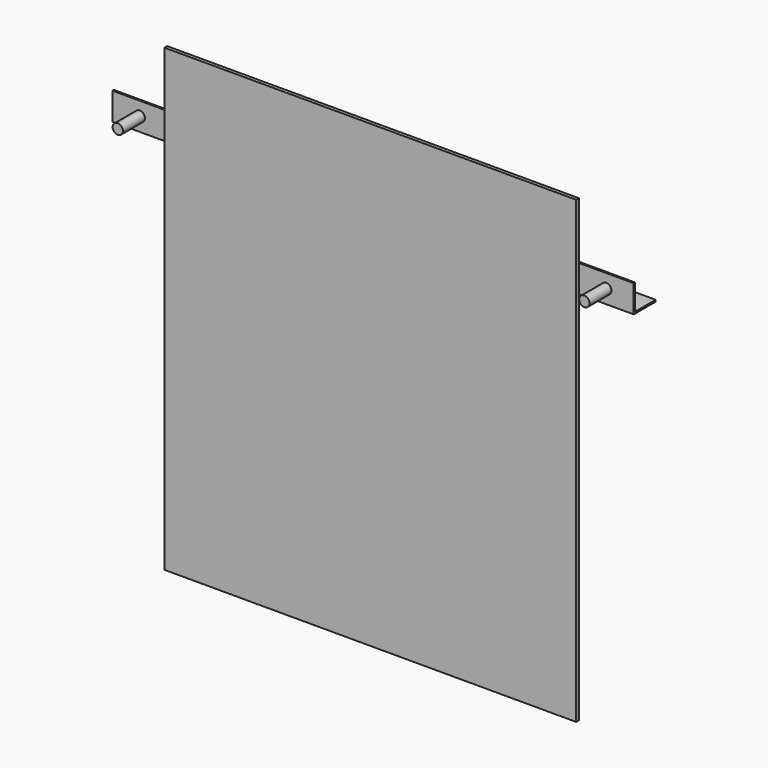
from build123d import *

# Parameters (mm, degrees)
F0_W      = 762
F0_H      = 850.9
F1_DEPTH  = 6.35
F3_DEPTH  = 101.6
F4_DEPTH  = 863.6
F5_R      = 9.525
F6_DEPTH  = 50.8
F7_R      = 9.525
F8_DEPTH  = 50.8
F11_DEPTH = 101.6
F12_DEPTH = 863.6
F13_R     = 9.525
F14_DEPTH = 50.8
F15_R     = 9.525
F16_DEPTH = 50.8


with BuildPart() as f1:
    # F0 (on Front) → F1 (new body)
    with BuildSketch(Plane.XZ):
        with Locations((381, 425.45)):
            Rectangle(F0_W, F0_H)
    extrude(amount=F1_DEPTH)


with BuildPart() as f3:
    # F2 (on face) → F3 (new body)
    with BuildSketch(Plane.YZ.offset(762)):
        Polygon((0, 674.259339), (0, 623.459339), (3.175, 623.459339), (3.175, 671.084339), (50.8, 671.084339), (50.8, 674.259339), align=None)
    extrude(amount=F3_DEPTH)

    # F5 (on face) → F6 (join)
    with BuildSketch(Plane.XZ):
        with Locations((812.8, 648.859339)):
            Circle(F5_R)
    extrude(amount=F6_DEPTH)


with BuildPart() as f4:
    # F2 (on face) → F4 (new body)
    with BuildSketch(Plane.YZ.offset(762)):
        Polygon((0, 674.259339), (0, 623.459339), (3.175, 623.459339), (3.175, 671.084339), (50.8, 671.084339), (50.8, 674.259339), align=None)
    extrude(amount=-F4_DEPTH)

    # F7 (on face) → F8 (join)
    with BuildSketch(Plane.XZ):
        with Locations((-50.8, 648.859339)):
            Circle(F7_R)
    extrude(amount=F8_DEPTH)


with BuildPart() as f11:
    # F10 (on face) → F11 (new body)
    with BuildSketch(Plane.YZ.offset(762)):
        Polygon((0, 745.30146), (0, 694.50146), (50.8, 694.50146), (50.8, 697.67646), (3.175, 697.67646), (3.175, 745.30146), align=None)
    extrude(amount=F11_DEPTH)

    # F13 (on face) → F14 (join)
    with BuildSketch(Plane.XZ):
        with Locations((812.8, 719.90146)):
            Circle(F13_R)
    extrude(amount=F14_DEPTH)


with BuildPart() as f12:
    # F10 (on face) → F12 (new body)
    with BuildSketch(Plane.YZ.offset(762)):
        Polygon((0, 745.30146), (0, 694.50146), (50.8, 694.50146), (50.8, 697.67646), (3.175, 697.67646), (3.175, 745.30146), align=None)
    extrude(amount=-F12_DEPTH)

    # F15 (on face) → F16 (join)
    with BuildSketch(Plane.XZ):
        with Locations((-50.8, 719.90146)):
            Circle(F15_R)
    extrude(amount=F16_DEPTH)


solid = Compound([f1.part, f11.part, f12.part])
